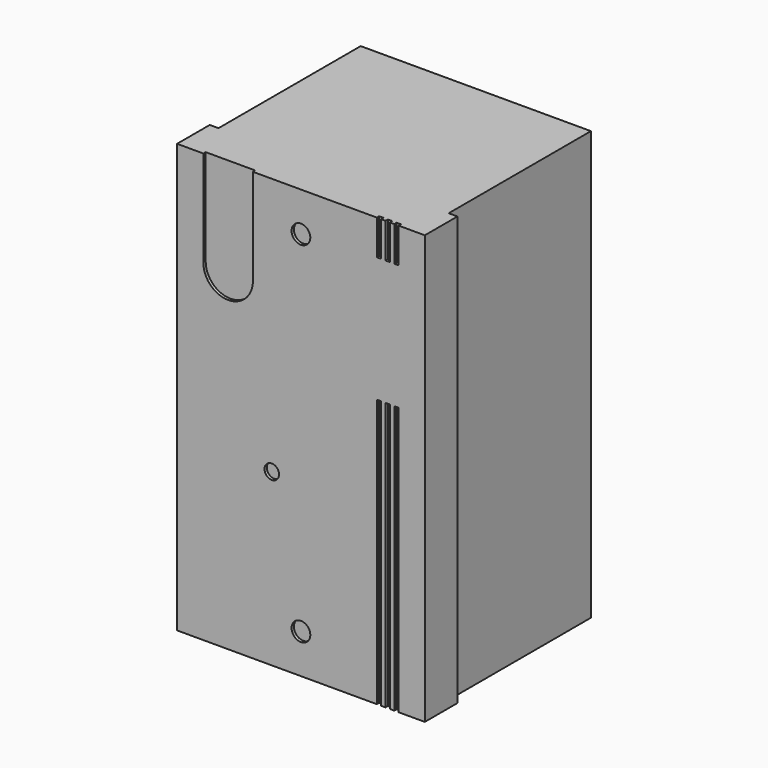
from build123d import *

# Parameters (mm, degrees)
F0_W     = 85
F0_H     = 147
F1_DEPTH = 75
F2_W     = 1.5
F2_H     = 92
F2_R     = 3.213136
F2_R_2   = 2.5
F2_H_2   = 12
F3_DEPTH = 1
F4_W     = 61
F4_H     = 147
F5_DEPTH = 3
F6_W     = 61
F6_H     = 147
F7_DEPTH = 3


with BuildPart() as f1:
    # F0 (on Front) → F1 (new body)
    with BuildSketch(Plane.XZ):
        Rectangle(F0_W, F0_H)
    extrude(amount=F1_DEPTH)

    # F2 (on face) → F3 (cut)
    with BuildSketch(Plane.XZ.offset(75)):
        with Locations((26.781611, -27.5)):
            Rectangle(F2_W, F2_H)
        with Locations((29.781611, -27.5)):
            Rectangle(F2_W, F2_H)
        with Locations((32.781611, -27.5)):
            Rectangle(F2_W, F2_H)
        with Locations((0, -60)):
            Circle(F2_R)
        with Locations((-10, -15)):
            Circle(F2_R_2)
        with Locations((0, 60)):
            Circle(F2_R)
        with BuildLine():
            Line((-16.484489, 73.5), (-33.484489, 73.5))
            Line((-33.484489, 73.5), (-33.484489, 40.5))
            ThreePointArc((-33.484489, 40.5), (-24.984489, 32), (-16.484489, 40.5))
            Line((-16.484489, 40.5), (-16.484489, 73.5))
        make_face()
        with Locations((26.781611, 67.5)):
            Rectangle(F2_W, F2_H_2)
        with Locations((29.781611, 67.5)):
            Rectangle(F2_W, F2_H_2)
        with Locations((32.781611, 67.5)):
            Rectangle(F2_W, F2_H_2)
    extrude(amount=-F3_DEPTH, mode=Mode.SUBTRACT)

    # F4 (on face) → F5 (cut)
    with BuildSketch(Plane(origin=(-42.5, 0, 0), x_dir=(0, -1, 0), z_dir=(-1, 0, 0))):
        with Locations((30.5, 0)):
            Rectangle(F4_W, F4_H)
    extrude(amount=-F5_DEPTH, mode=Mode.SUBTRACT)

    # F6 (on face) → F7 (cut)
    with BuildSketch(Plane.YZ.offset(42.5)):
        with Locations((-30.5, 0)):
            Rectangle(F6_W, F6_H)
    extrude(amount=-F7_DEPTH, mode=Mode.SUBTRACT)


solid = f1.part
